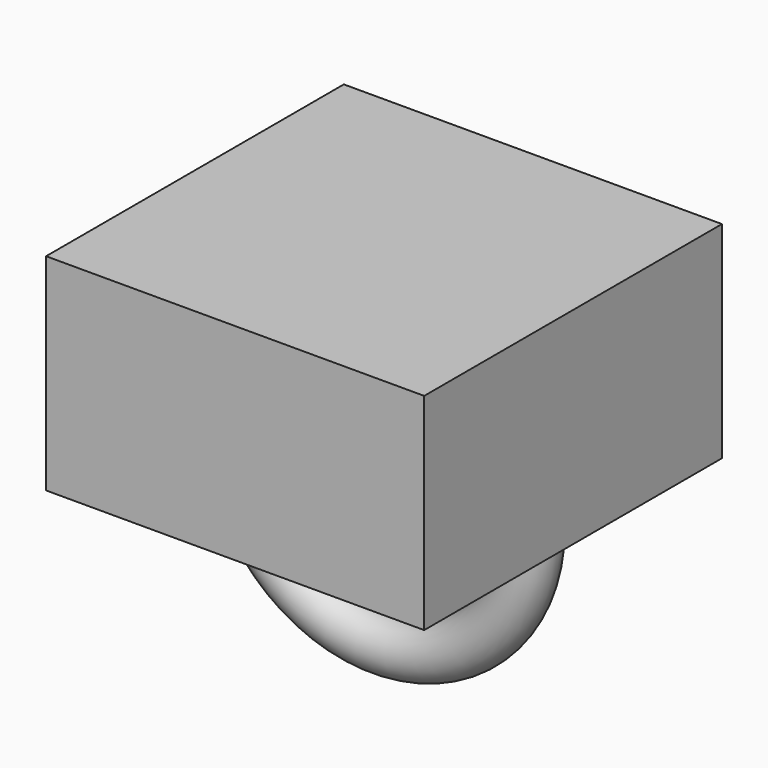
from build123d import *

# Parameters (mm, degrees)
F0_W      = 69.863096
F0_H      = 137.526572
F2_DEPTH  = 50.8
F2_FACE_W = 139.726192
F2_FACE_H = 137.526572
F3_DEPTH  = 25.4
F1_R      = 9.824635
F4_ANGLE  = -180


with BuildPart() as f2:
    # F0 (on Top) → F2 (new body)
    with BuildSketch(Plane.XY):
        with Locations((-34.931548, 0)):
            Rectangle(F0_W, F0_H)
        with Locations((34.931548, 0)):
            Rectangle(F0_W, F0_H)
    extrude(amount=F2_DEPTH)

    # F2_face (on face) → F3 (join)
    with BuildSketch(Plane.XY.offset(50.8)):
        Rectangle(F2_FACE_W, F2_FACE_H)
    extrude(amount=F3_DEPTH)

    # F1 (on Top) → F4 (revolve)
    with BuildSketch(Plane.XY):
        with Locations((54.264009, 0)):
            Circle(F1_R)
    revolve(axis=Axis((0, 0, 0), (0, -1, 0)), revolution_arc=F4_ANGLE)


solid = f2.part
